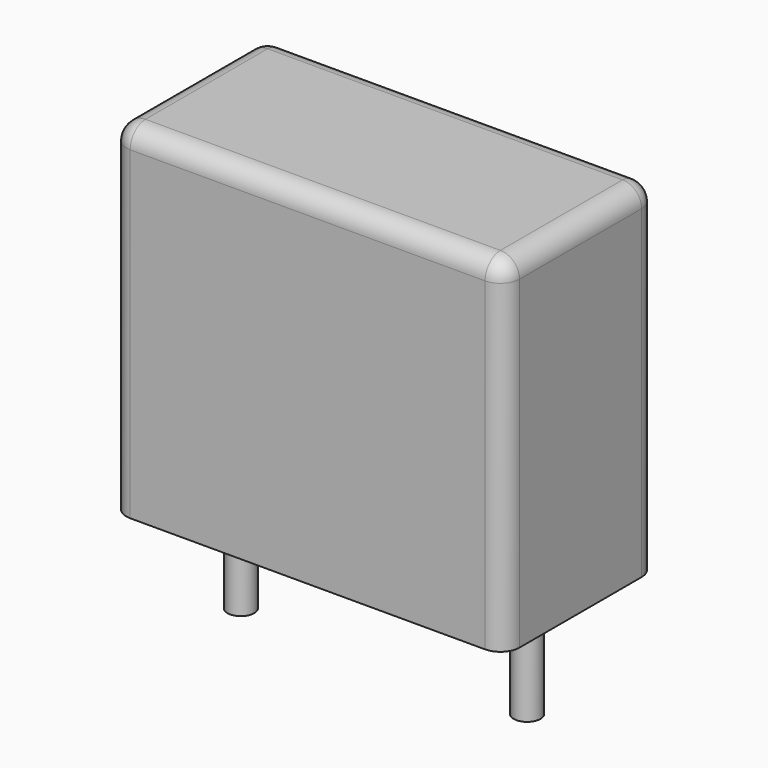
from build123d import *

# Parameters (mm, degrees)
SKETCH_W     = 10.3
SKETCH_H     = 5
PAD_DEPTH    = 9
FILLET_R     = 0.5
SKETCH001_R  = 0.35
PAD001_DEPTH = 3.2


with BuildPart() as fillet_body:
    # Sketch → Pad (new body)
    with BuildSketch(Plane.XY.offset(0.1)):
        with Locations((3.75, 0)):
            Rectangle(SKETCH_W, SKETCH_H)
    extrude(amount=PAD_DEPTH)

    # Fillet
    fillet_edges = [fillet_body.edges().sort_by_distance(p)[0] for p in [
        (-1.4, 0, 9.1),
        (-1.4, -2.5, 4.6),
        (3.75, -2.5, 9.1),
        (8.9, -2.5, 4.6),
        (8.9, 0, 9.1),
        (8.9, 2.5, 4.6),
        (3.75, 2.5, 9.1),
        (-1.4, 2.5, 4.6),
    ]]
    fillet(fillet_edges, radius=FILLET_R)


with BuildPart() as pad001:
    # Sketch001 → Pad001 (new body)
    with BuildSketch(Plane.XY.offset(0.5)):
        Circle(SKETCH001_R)
        with Locations((7.5, 0)):
            Circle(SKETCH001_R)
    extrude(amount=-PAD001_DEPTH)


solid = Compound([fillet_body.part, pad001.part])
